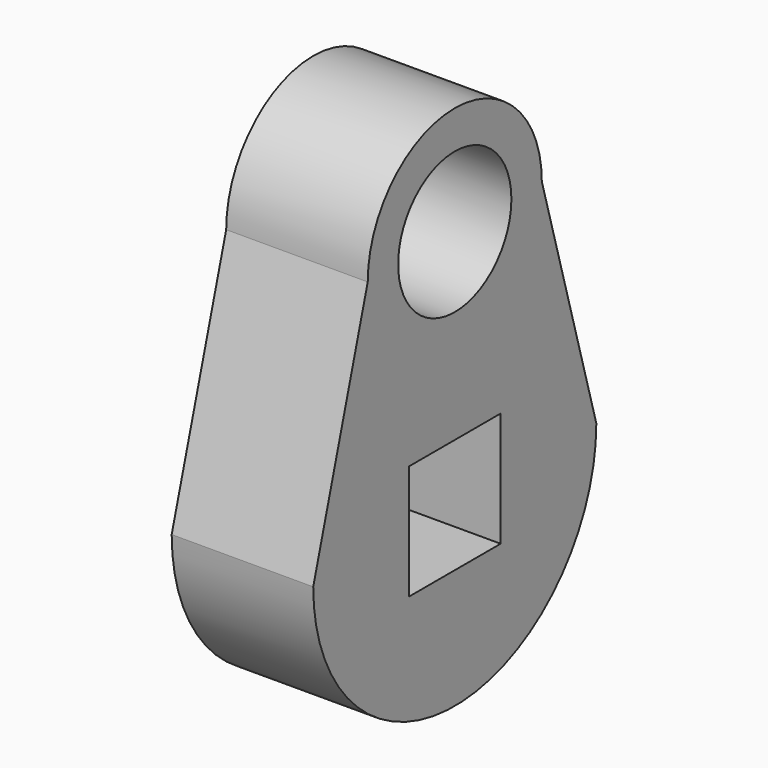
from build123d import *

# Parameters (mm, degrees)
F0_W     = 10.287
F0_H     = 10.287
F0_R     = 6.35
F1_DEPTH = 12.7


with BuildPart() as f1:
    # F0 (on Right) → F1 (new body)
    with BuildSketch(Plane.YZ):
        with BuildLine():
            Line((15.875, 0), (9.761532, 21.59))
            ThreePointArc((9.761532, 21.59), (0, 31.351532), (-9.761532, 21.59))
            Line((-9.761532, 21.59), (-15.875, 0))
            ThreePointArc((-15.875, 0), (0, -15.875), (15.875, 0))
        make_face()
        Rectangle(F0_W, F0_H, mode=Mode.SUBTRACT)
        with Locations((0, 21.59)):
            Circle(F0_R, mode=Mode.SUBTRACT)
    extrude(amount=F1_DEPTH)


solid = f1.part
